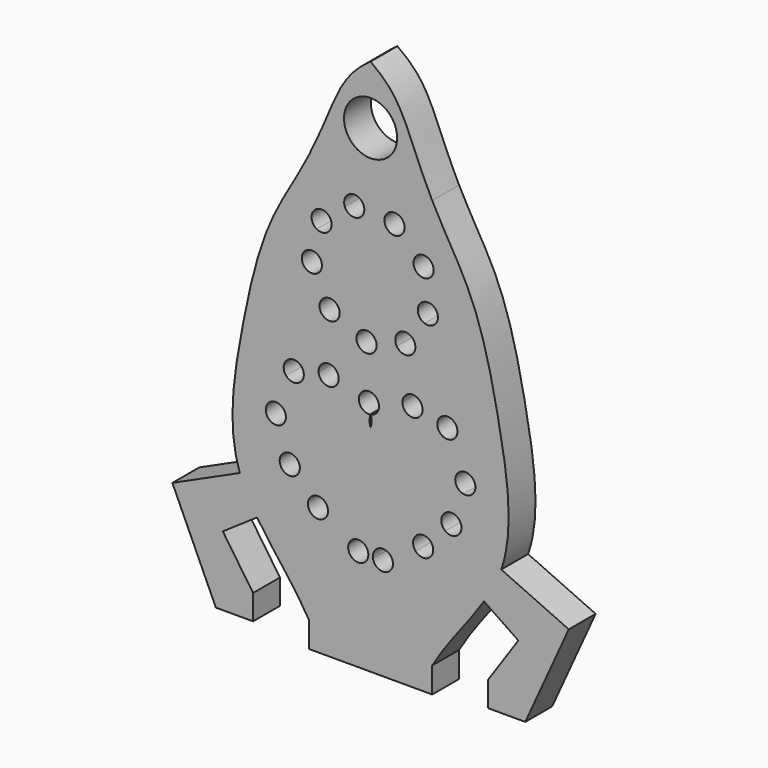
from build123d import *

# Parameters (mm, degrees)
F0_R     = 2.5128130048
F1_DEPTH = 3.175


with BuildPart() as f1:
    # F0 (on Front) → F1 (new body)
    with BuildSketch(Plane.XZ):
        with BuildLine():
            add(Edge.make_bspline(
                [(-5.8317569031, 20.1217572258), (-3.1463195149, 25.5072090049), (-3.2758958339, 27.4859398634), (0, 29.7985919136)],
                knots=[0, 0, 0, 0, 11.2982528805, 11.2982528805, 11.2982528805, 11.2982528805], degree=3))
            add(Edge.make_bspline(
                [(-5.8317569031, 20.1217572258), (-2.0176986776, 20.1219356534), (2.0176986776, 20.1219356534), (5.8317569031, 20.1217572258)],
                knots=[0, 0, 0, 0, 11.6635138063, 11.6635138063, 11.6635138063, 11.6635138063], degree=3))
            add(Edge.make_bspline(
                [(0, 29.7985919136), (3.2758958339, 27.4859398634), (3.1463195149, 25.5072090049), (5.8317569031, 20.1217572258)],
                knots=[0, 0, 0, 0, 11.2982528805, 11.2982528805, 11.2982528805, 11.2982528805], degree=3))
        make_face()
        with Locations((0, 24.2606662214)):
            Circle(F0_R, mode=Mode.SUBTRACT)
        with BuildLine():
            add(Edge.make_bspline(
                [(-5.8317569031, 20.1217572258), (-2.0176986776, 20.1219356534), (2.0176986776, 20.1219356534), (5.8317569031, 20.1217572258)],
                knots=[0, 0, 0, 0, 11.6635138063, 11.6635138063, 11.6635138063, 11.6635138063], degree=3))
            add(Edge.make_bspline(
                [(-5.8317569031, 20.1217572258), (-6.9799752135, 17.8190878844), (-10.0840864235, 13.388145858), (-12.3412969614, 3.2872432139), (-13.6052958241, -4.9103975297), (-12.3594653451, -8.4724418646)],
                knots=[0, 0, 0, 0, 0.2159416443, 0.4658263298, 0.7311582299, 0.7311582299, 0.7311582299, 0.7311582299], degree=3))
            add(Edge.make_bspline(
                [(-12.3594653451, -8.4724418646), (-11.9713697045, -9.5820742754), (-11.399206932, -10.6276913175), (-10.7330995772, -11.6474093268)],
                knots=[0.7311582299, 0.7311582299, 0.7311582299, 0.7311582299, 0.8138132584, 0.8138132584, 0.8138132584, 0.8138132584], degree=3))
            add(Edge.make_bspline(
                [(-10.7330995772, -11.6474093268), (-9.2326420702, -13.9444017426), (-7.255500444, -16.1099798995), (-5.8317569031, -18.579805676)],
                knots=[0.8138132584, 0.8138132584, 0.8138132584, 0.8138132584, 1, 1, 1, 1], degree=3))
            Line((-5.8317569031, -18.579805676), (5.8317569031, -18.579805676))
            add(Edge.make_bspline(
                [(10.7330995772, -11.6474093268), (9.2326420702, -13.9444017426), (7.255500444, -16.1099798995), (5.8317569031, -18.579805676)],
                knots=[0.8138132584, 0.8138132584, 0.8138132584, 0.8138132584, 1, 1, 1, 1], degree=3))
            add(Edge.make_bspline(
                [(12.3594653451, -8.4724418646), (11.9713697045, -9.5820742754), (11.399206932, -10.6276913175), (10.7330995772, -11.6474093268)],
                knots=[0.7311582299, 0.7311582299, 0.7311582299, 0.7311582299, 0.8138132584, 0.8138132584, 0.8138132584, 0.8138132584], degree=3))
            add(Edge.make_bspline(
                [(5.8317569031, 20.1217572258), (6.9799752135, 17.8190878844), (10.0840864235, 13.388145858), (12.3412969614, 3.2872432139), (13.6052958241, -4.9103975297), (12.3594653451, -8.4724418646)],
                knots=[0, 0, 0, 0, 0.2159416443, 0.4658263298, 0.7311582299, 0.7311582299, 0.7311582299, 0.7311582299], degree=3))
        make_face()
        with BuildLine():
            ThreePointArc((-0.8781678767, 1.9654666153), (-0.0827441635, 2.2950784695), (0.6534817118, 1.8486321472))
            add(Edge.make_bspline(
                [(0.6534817118, 1.8486321472), (1.2108226992, 2.1804375468), (2.1011812718, 2.3409908979), (3.0128705114, 2.393764413)],
                knots=[0.2022691027, 0.2022691027, 0.2022691027, 0.2022691027, 0.323027052, 0.323027052, 0.323027052, 0.323027052], degree=3))
            ThreePointArc((3.0128705114, 2.393764413), (3.9559326652, 3.3647343084), (4.9176905463, 2.4122793007))
            ThreePointArc((4.9176905463, 2.4122793007), (4.9173530603, 2.3869258608), (4.9163408415, 2.3615903871))
            add(Edge.make_bspline(
                [(4.9163408415, 2.3615903871), (5.4720704698, 2.3092266746), (5.963274391, 2.2162694028), (6.3996619764, 2.0707263193)],
                knots=[0.4106953232, 0.4106953232, 0.4106953232, 0.4106953232, 0.4952005479, 0.4952005479, 0.4952005479, 0.4952005479], degree=3))
            ThreePointArc((6.3996619764, 2.0707263193), (7.4690521422, 2.598516985), (8.2155919393, 1.6685510476))
            ThreePointArc((8.2155919393, 1.6685510476), (8.1582764211, 1.3431267192), (7.9932276485, 1.0568664097))
            add(Edge.make_bspline(
                [(7.9932276485, 1.0568664097), (8.5329932931, 0.4648310561), (8.9331451429, -0.3996702825), (9.0025356875, -1.3802166169), (9.0061049865, -1.4614594457)],
                knots=[0.6189562489, 0.6189562489, 0.6189562489, 0.6189562489, 0.7747442973, 0.7886862469, 0.7886862469, 0.7886862469, 0.7886862469], degree=3))
            ThreePointArc((9.0061049865, -1.4614594457), (9.6496973423, -1.7557928363), (9.9126071929, -2.4128481428))
            ThreePointArc((9.9126071929, -2.4128481428), (9.5650098389, -3.1486123977), (8.7759162977, -3.3473693914))
            add(Edge.make_bspline(
                [(8.7759162977, -3.3473693914), (8.6019934641, -4.0215117474), (8.3450950327, -4.7002065948), (8.0523242342, -5.3442846251)],
                knots=[0.8919422517, 0.8919422517, 0.8919422517, 0.8919422517, 1, 1, 1, 1], degree=3))
            add(Edge.make_bspline(
                [(8.0523242342, -5.3442846251), (8.0501349487, -5.3495623247), (8.0479508214, -5.354820538), (8.0457718075, -5.3600593727)],
                knots=[0, 0, 0, 0, 0.0011479548, 0.0011479548, 0.0011479548, 0.0011479548], degree=3))
            ThreePointArc((8.0457718075, -5.3600593727), (8.4458510465, -5.7115381409), (8.5947228165, -6.2228481428))
            ThreePointArc((8.5947228165, -6.2228481428), (8.0626551035, -7.0775369412), (7.0608793686, -6.9773652371))
            add(Edge.make_bspline(
                [(7.0608793686, -6.9773652371), (6.9702992422, -7.0642317871), (6.6185691008, -7.3820085557), (6.0965876317, -7.8929336686), (5.672408837, -8.2948391058)],
                knots=[0.2173712428, 0.2173712428, 0.2173712428, 0.2173712428, 0.2740667092, 0.419647138, 0.419647138, 0.419647138, 0.419647138], degree=3))
            ThreePointArc((5.672408837, -8.2948391058), (5.8608581136, -8.5947291889), (5.9267096578, -8.9427389099))
            ThreePointArc((5.9267096578, -8.9427389099), (5.3085151598, -9.8346447801), (4.2563766787, -9.5688156337))
            add(Edge.make_bspline(
                [(4.2563766787, -9.5688156337), (3.96431084, -9.8128772871), (3.2124037969, -10.4038434316), (2.4993332064, -10.8198078005), (2.0623204463, -11.0144282449)],
                knots=[0.5690227289, 0.5690227289, 0.5690227289, 0.5690227289, 0.6572492191, 0.7939555582, 0.7939555582, 0.7939555582, 0.7939555582], degree=3))
            ThreePointArc((2.0623204463, -11.0144282449), (2.1030138909, -11.1707435658), (2.1167096578, -11.3316872267))
            ThreePointArc((2.1167096578, -11.3316872267), (1.2489682982, -12.2804085888), (0.2267942292, -11.5005320199))
            add(Edge.make_bspline(
                [(0.2267942292, -11.5005320199), (0.1518997751, -11.5082095309), (0.0763245136, -11.5146809331), (0, -11.5199707958)],
                knots=[0.9786540367, 0.9786540367, 0.9786540367, 0.9786540367, 1, 1, 1, 1], degree=3))
            add(Edge.make_bspline(
                [(-0.2267942292, -11.5005320199), (-0.1518997751, -11.5082095309), (-0.0763245136, -11.5146809331), (0, -11.5199707958)],
                knots=[0.9786540367, 0.9786540367, 0.9786540367, 0.9786540367, 1, 1, 1, 1], degree=3))
            ThreePointArc((-0.2267942292, -11.5005320199), (-1.4080547597, -12.25244551), (-2.0623204463, -11.0144282449))
            add(Edge.make_bspline(
                [(-4.2563766787, -9.5688156337), (-3.96431084, -9.8128772871), (-3.2124037969, -10.4038434316), (-2.4993332064, -10.8198078005), (-2.0623204463, -11.0144282449)],
                knots=[0.5690227289, 0.5690227289, 0.5690227289, 0.5690227289, 0.6572492191, 0.7939555582, 0.7939555582, 0.7939555582, 0.7939555582], degree=3))
            ThreePointArc((-4.2563766787, -9.5688156337), (-5.6112735635, -9.6508390653), (-5.672408837, -8.2948391058))
            add(Edge.make_bspline(
                [(-7.0608793686, -6.9773652371), (-6.9702992422, -7.0642317871), (-6.6185691008, -7.3820085557), (-6.0965876317, -7.8929336686), (-5.672408837, -8.2948391058)],
                knots=[0.2173712428, 0.2173712428, 0.2173712428, 0.2173712428, 0.2740667092, 0.419647138, 0.419647138, 0.419647138, 0.419647138], degree=3))
            ThreePointArc((-7.0608793686, -6.9773652371), (-8.4557474209, -6.7182610696), (-8.0457718075, -5.3600593727))
            add(Edge.make_bspline(
                [(-8.0523242342, -5.3442846251), (-8.0501349487, -5.3495623247), (-8.0479508214, -5.354820538), (-8.0457718075, -5.3600593727)],
                knots=[0, 0, 0, 0, 0.0011479548, 0.0011479548, 0.0011479548, 0.0011479548], degree=3))
            add(Edge.make_bspline(
                [(-8.7759162977, -3.3473693914), (-8.6019934641, -4.0215117474), (-8.3450950327, -4.7002065948), (-8.0523242342, -5.3442846251)],
                knots=[0.8919422517, 0.8919422517, 0.8919422517, 0.8919422517, 1, 1, 1, 1], degree=3))
            ThreePointArc((-8.7759162977, -3.3473693914), (-9.9055903573, -2.5282510709), (-9.0061049865, -1.4614594457))
            add(Edge.make_bspline(
                [(-7.9932276485, 1.0568664097), (-8.5329932931, 0.4648310561), (-8.9331451429, -0.3996702825), (-9.0025356875, -1.3802166169), (-9.0061049865, -1.4614594457)],
                knots=[0.6189562489, 0.6189562489, 0.6189562489, 0.6189562489, 0.7747442973, 0.7886862469, 0.7886862469, 0.7886862469, 0.7886862469], degree=3))
            ThreePointArc((-7.9932276485, 1.0568664097), (-7.7743842418, 2.4721905385), (-6.3996619764, 2.0707263193))
            add(Edge.make_bspline(
                [(-4.9163408415, 2.3615903871), (-5.4720704698, 2.3092266746), (-5.963274391, 2.2162694028), (-6.3996619764, 2.0707263193)],
                knots=[0.4106953232, 0.4106953232, 0.4106953232, 0.4106953232, 0.4952005479, 0.4952005479, 0.4952005479, 0.4952005479], degree=3))
            ThreePointArc((-4.9163408415, 2.3615903871), (-3.9905439863, 3.3644418147), (-3.0126905463, 2.4122793007))
            ThreePointArc((-3.0126905463, 2.4122793007), (-3.0127355387, 2.4030214195), (-3.0128705114, 2.393764413))
            add(Edge.make_bspline(
                [(-0.8781678767, 1.9654666153), (-1.4343840848, 2.218996963), (-2.2154683225, 2.3476064519), (-3.0128705114, 2.393764413)],
                knots=[0.217407013, 0.217407013, 0.217407013, 0.217407013, 0.323027052, 0.323027052, 0.323027052, 0.323027052], degree=3))
        make_face(mode=Mode.SUBTRACT)
        with BuildLine():
            ThreePointArc((5.3590162899, 13.4767787316), (5.5266994385, 12.7020413363), (5.5829719467, 11.9113649962))
            ThreePointArc((5.5829719467, 11.9113649962), (5.5793244454, 11.7095866749), (5.5683867074, 11.5080720077))
            ThreePointArc((5.5683867074, 11.5080720077), (6.1432733571, 11.1857645563), (6.3712926501, 10.5673925363))
            ThreePointArc((6.3712926501, 10.5673925363), (5.9731095614, 9.7928029598), (5.1114732026, 9.6658322182))
            ThreePointArc((5.1114732026, 9.6658322182), (4.6323338135, 8.7951077542), (4.0063999583, 8.0231346619))
            ThreePointArc((4.0063999583, 8.0231346619), (4.1794320142, 7.7319822155), (4.239647153, 7.3986895866))
            ThreePointArc((4.239647153, 7.3986895866), (3.5431094262, 6.4812259281), (2.4722149961, 6.9055954479))
            ThreePointArc((2.4722149961, 6.9055954479), (1.5454820328, 6.5465666734), (0.5697741425, 6.3575435024))
            ThreePointArc((0.5697741425, 6.3575435024), (0.5698752629, 6.3495308417), (0.5699089705, 6.3415176139))
            ThreePointArc((0.5699089705, 6.3415176139), (-0.4558562222, 5.3918395308), (-1.3238200826, 6.4876138822))
            ThreePointArc((-1.3238200826, 6.4876138822), (-2.2645179672, 6.8082743509), (-3.1334553269, 7.2906471437))
            ThreePointArc((-3.1334553269, 7.2906471437), (-4.5341286186, 7.2045538425), (-4.5004250321, 8.607465741))
            ThreePointArc((-4.5004250321, 8.607465741), (-5.014924843, 9.4577748559), (-5.3705062244, 10.3858360217))
            ThreePointArc((-5.3705062244, 10.3858360217), (-6.4988239234, 11.2202201639), (-5.5712310924, 12.2732487801))
            ThreePointArc((-5.5712310924, 12.2732487801), (-5.4187926501, 13.2553374561), (-5.0946375729, 14.1948368612))
            ThreePointArc((-5.0946375729, 14.1948368612), (-5.422647288, 15.5592808335), (-4.0351962072, 15.7697023748))
            ThreePointArc((-4.0351962072, 15.7697023748), (-3.287147153, 16.4240404058), (-2.4349313805, 16.9353758372))
            ThreePointArc((-2.4349313805, 16.9353758372), (-1.8091537206, 18.1914411408), (-0.6110481705, 17.4607970294))
            ThreePointArc((-0.6110481705, 17.4607970294), (0.3825910295, 17.4812123785), (1.3641062661, 17.3251243049))
            ThreePointArc((1.3641062661, 17.3251243049), (2.4220205143, 17.9538433132), (3.2170179672, 17.0144556415))
            ThreePointArc((3.2170179672, 17.0144556415), (3.1870459391, 16.7773936432), (3.0990160963, 16.5552507606))
            ThreePointArc((3.0990160963, 16.5552507606), (3.8733106173, 15.9321908591), (4.5248634304, 15.1817146249))
            ThreePointArc((4.5248634304, 15.1817146249), (5.4842183304, 15.1938217559), (5.967424843, 14.3649551365))
            ThreePointArc((5.967424843, 14.3649551365), (5.8007375921, 13.8266665769), (5.3590162899, 13.4767787316))
        make_face(mode=Mode.SUBTRACT)
        with BuildLine():
            add(Edge.make_bspline(
                [(-12.3594653451, -8.4724418646), (-11.9713697045, -9.5820742754), (-11.399206932, -10.6276913175), (-10.7330995772, -11.6474093268)],
                knots=[0.7311582299, 0.7311582299, 0.7311582299, 0.7311582299, 0.8138132584, 0.8138132584, 0.8138132584, 0.8138132584], degree=3))
            Line((-12.3594653451, -8.4724418646), (-18.7440875661, -11.3745924868))
            Line((-18.7440875661, -11.3745924868), (-14.632413465, -20.4201208721))
            Line((-14.632413465, -20.4201208721), (-11.1096999329, -20.4201208721))
            Line((-11.1096999329, -20.4201208721), (-11.1096999329, -18.0552332997))
            Line((-11.1096999329, -18.0552332997), (-13.9725946684, -13.8559728443))
            Line((-13.9725946684, -13.8559728443), (-10.7330995772, -11.6474093268))
        make_face()
        with BuildLine():
            Line((18.7440875661, -11.3745924868), (12.3594653451, -8.4724418646))
            add(Edge.make_bspline(
                [(12.3594653451, -8.4724418646), (11.9713697045, -9.5820742754), (11.399206932, -10.6276913175), (10.7330995772, -11.6474093268)],
                knots=[0.7311582299, 0.7311582299, 0.7311582299, 0.7311582299, 0.8138132584, 0.8138132584, 0.8138132584, 0.8138132584], degree=3))
            Line((10.7330995772, -11.6474093268), (13.9725946684, -13.8559728443))
            Line((13.9725946684, -13.8559728443), (11.1096999329, -18.0552332997))
            Line((11.1096999329, -18.0552332997), (11.1096999329, -20.4201208721))
            Line((11.1096999329, -20.4201208721), (14.632413465, -20.4201208721))
            Line((14.632413465, -20.4201208721), (18.7440875661, -11.3745924868))
        make_face()
        with BuildLine():
            Line((5.8317569031, -18.579805676), (-5.8317569031, -18.579805676))
            add(Edge.make_bspline(
                [(-5.8317569031, -18.579805676), (-2.4496704333, -18.5805526404), (2.4496704333, -18.5805526404), (5.8317569031, -18.579805676)],
                knots=[0, 0, 0, 0, 11.6635138063, 11.6635138063, 11.6635138063, 11.6635138063], degree=3))
        make_face()
        with BuildLine():
            add(Edge.make_bspline(
                [(-5.8317569031, -18.579805676), (-2.4496704333, -18.5805526404), (2.4496704333, -18.5805526404), (5.8317569031, -18.579805676)],
                knots=[0, 0, 0, 0, 11.6635138063, 11.6635138063, 11.6635138063, 11.6635138063], degree=3))
            Line((-5.8317569031, -18.579805676), (-5.8317569031, -21.0014080864))
            Line((-5.8317569031, -21.0014080864), (5.8317569031, -21.0014080864))
            Line((5.8317569031, -21.0014080864), (5.8317569031, -18.579805676))
        make_face()
        with BuildLine():
            ThreePointArc((5.5683867074, 11.5080720077), (5.5793244454, 11.7095866749), (5.5829719467, 11.9113649962))
            ThreePointArc((5.5829719467, 11.9113649962), (5.5266994385, 12.7020413363), (5.3590162899, 13.4767787316))
            ThreePointArc((5.3590162899, 13.4767787316), (4.1593382561, 13.9463528883), (4.5248634304, 15.1817146249))
            ThreePointArc((4.5248634304, 15.1817146249), (3.8733106173, 15.9321908591), (3.0990160963, 16.5552507606))
            ThreePointArc((3.0990160963, 16.5552507606), (1.8781729552, 16.1438272583), (1.3641062661, 17.3251243049))
            ThreePointArc((1.3641062661, 17.3251243049), (0.3825910295, 17.4812123785), (-0.6110481705, 17.4607970294))
            ThreePointArc((-0.6110481705, 17.4607970294), (-0.5975093265, 17.3689210577), (-0.5929820328, 17.276163319))
            ThreePointArc((-0.5929820328, 17.276163319), (-1.3721965079, 16.3395586122), (-2.4349313805, 16.9353758372))
            ThreePointArc((-2.4349313805, 16.9353758372), (-3.287147153, 16.4240404058), (-4.0351962072, 15.7697023748))
            ThreePointArc((-4.0351962072, 15.7697023748), (-3.7732558718, 15.4390117616), (-3.6798338135, 15.0276222382))
            ThreePointArc((-3.6798338135, 15.0276222382), (-4.1491610084, 14.2067688466), (-5.0946375729, 14.1948368612))
            ThreePointArc((-5.0946375729, 14.1948368612), (-5.4187926501, 13.2553374561), (-5.5712310924, 12.2732487801))
            ThreePointArc((-5.5712310924, 12.2732487801), (-4.8850994215, 12.0013514207), (-4.5991651203, 11.3209497605))
            ThreePointArc((-4.5991651203, 11.3209497605), (-4.8168828061, 10.7148547177), (-5.3705062244, 10.3858360217))
            ThreePointArc((-5.3705062244, 10.3858360217), (-5.014924843, 9.4577748559), (-4.5004250321, 8.607465741))
            ThreePointArc((-4.5004250321, 8.607465741), (-3.4796548223, 8.7578864484), (-2.9208106173, 7.8905391333))
            ThreePointArc((-2.9208106173, 7.8905391333), (-2.9755443855, 7.5723064465), (-3.1334553269, 7.2906471437))
            ThreePointArc((-3.1334553269, 7.2906471437), (-2.2645179672, 6.8082743509), (-1.3238200826, 6.4876138822))
            ThreePointArc((-1.3238200826, 6.4876138822), (-0.3173179171, 7.2917784574), (0.5697741425, 6.3575435024))
            ThreePointArc((0.5697741425, 6.3575435024), (1.5454820328, 6.5465666734), (2.4722149961, 6.9055954479))
            ThreePointArc((2.4722149961, 6.9055954479), (2.7263333619, 8.1685883732), (4.0063999583, 8.0231346619))
            ThreePointArc((4.0063999583, 8.0231346619), (4.6323338135, 8.7951077542), (5.1114732026, 9.6658322182))
            ThreePointArc((5.1114732026, 9.6658322182), (4.494302961, 10.7966850672), (5.5683867074, 11.5080720077))
        make_face()
        with BuildLine():
            add(Edge.make_bspline(
                [(0, -0.6480246276), (0.1374471774, -0.3803615299), (0.0815790552, 0.0138131128), (0.0531288168, 0.4158972608)],
                knots=[0, 0, 0, 0, 0.0841991302, 0.0841991302, 0.0841991302, 0.0841991302], degree=3))
            add(Edge.make_bspline(
                [(0, -0.6480246276), (-0.1354283518, -0.3842929683), (-0.083178533, 0.0022611235), (-0.0543994947, 0.398185307)],
                knots=[0, 0, 0, 0, 0.0829624125, 0.0829624125, 0.0829624125, 0.0829624125], degree=3))
            ThreePointArc((-0.0543994947, 0.398185307), (-0.9983225741, 0.9021845133), (-0.8781678767, 1.9654666153))
            add(Edge.make_bspline(
                [(-0.8781678767, 1.9654666153), (-1.4343840848, 2.218996963), (-2.2154683225, 2.3476064519), (-3.0128705114, 2.393764413)],
                knots=[0.217407013, 0.217407013, 0.217407013, 0.217407013, 0.323027052, 0.323027052, 0.323027052, 0.323027052], degree=3))
            ThreePointArc((-3.0128705114, 2.393764413), (-3.9490929049, 1.4599153388), (-4.9163408415, 2.3615903871))
            add(Edge.make_bspline(
                [(-4.9163408415, 2.3615903871), (-5.4720704698, 2.3092266746), (-5.963274391, 2.2162694028), (-6.3996619764, 2.0707263193)],
                knots=[0.4106953232, 0.4106953232, 0.4106953232, 0.4106953232, 0.4952005479, 0.4952005479, 0.4952005479, 0.4952005479], degree=3))
            ThreePointArc((-6.3996619764, 2.0707263193), (-6.3331260019, 1.8745112505), (-6.3105919393, 1.6685510476))
            ThreePointArc((-6.3105919393, 1.6685510476), (-6.9376676109, 0.7733665658), (-7.9932276485, 1.0568664097))
            add(Edge.make_bspline(
                [(-7.9932276485, 1.0568664097), (-8.5329932931, 0.4648310561), (-8.9331451429, -0.3996702825), (-9.0025356875, -1.3802166169), (-9.0061049865, -1.4614594457)],
                knots=[0.6189562489, 0.6189562489, 0.6189562489, 0.6189562489, 0.7747442973, 0.7886862469, 0.7886862469, 0.7886862469, 0.7886862469], degree=3))
            ThreePointArc((-9.0061049865, -1.4614594457), (-8.3030518864, -1.7232579934), (-8.0076071929, -2.4128481428))
            ThreePointArc((-8.0076071929, -2.4128481428), (-8.224342938, -3.0177507889), (-8.7759162977, -3.3473693914))
            add(Edge.make_bspline(
                [(-8.7759162977, -3.3473693914), (-8.6019934641, -4.0215117474), (-8.3450950327, -4.7002065948), (-8.0523242342, -5.3442846251)],
                knots=[0.8919422517, 0.8919422517, 0.8919422517, 0.8919422517, 1, 1, 1, 1], degree=3))
            add(Edge.make_bspline(
                [(-8.0523242342, -5.3442846251), (-8.0501349487, -5.3495623247), (-8.0479508214, -5.354820538), (-8.0457718075, -5.3600593727)],
                knots=[0, 0, 0, 0, 0.0011479548, 0.0011479548, 0.0011479548, 0.0011479548], degree=3))
            ThreePointArc((-8.0457718075, -5.3600593727), (-7.1309128147, -5.4192199129), (-6.6897228165, -6.2228481428))
            ThreePointArc((-6.6897228165, -6.2228481428), (-6.7875340182, -6.6432804298), (-7.0608793686, -6.9773652371))
            add(Edge.make_bspline(
                [(-7.0608793686, -6.9773652371), (-6.9702992422, -7.0642317871), (-6.6185691008, -7.3820085557), (-6.0965876317, -7.8929336686), (-5.672408837, -8.2948391058)],
                knots=[0.2173712428, 0.2173712428, 0.2173712428, 0.2173712428, 0.2740667092, 0.419647138, 0.419647138, 0.419647138, 0.419647138], degree=3))
            ThreePointArc((-5.672408837, -8.2948391058), (-4.6261999368, -8.0560904541), (-4.0217096578, -8.9427389099))
            ThreePointArc((-4.0217096578, -8.9427389099), (-4.0823037876, -9.2770444119), (-4.2563766787, -9.5688156337))
            add(Edge.make_bspline(
                [(-4.2563766787, -9.5688156337), (-3.96431084, -9.8128772871), (-3.2124037969, -10.4038434316), (-2.4993332064, -10.8198078005), (-2.0623204463, -11.0144282449)],
                knots=[0.5690227289, 0.5690227289, 0.5690227289, 0.5690227289, 0.6572492191, 0.7939555582, 0.7939555582, 0.7939555582, 0.7939555582], degree=3))
            ThreePointArc((-2.0623204463, -11.0144282449), (-1.0032659969, -10.3928829936), (-0.2117096578, -11.3316872267))
            ThreePointArc((-0.2117096578, -11.3316872267), (-0.2154882957, -11.4164458671), (-0.2267942292, -11.5005320199))
            add(Edge.make_bspline(
                [(-0.2267942292, -11.5005320199), (-0.1518997751, -11.5082095309), (-0.0763245136, -11.5146809331), (0, -11.5199707958)],
                knots=[0.9786540367, 0.9786540367, 0.9786540367, 0.9786540367, 1, 1, 1, 1], degree=3))
            add(Edge.make_bspline(
                [(0.2267942292, -11.5005320199), (0.1518997751, -11.5082095309), (0.0763245136, -11.5146809331), (0, -11.5199707958)],
                knots=[0.9786540367, 0.9786540367, 0.9786540367, 0.9786540367, 1, 1, 1, 1], degree=3))
            ThreePointArc((0.2267942292, -11.5005320199), (0.9203645559, -10.4109289434), (2.0623204463, -11.0144282449))
            add(Edge.make_bspline(
                [(4.2563766787, -9.5688156337), (3.96431084, -9.8128772871), (3.2124037969, -10.4038434316), (2.4993332064, -10.8198078005), (2.0623204463, -11.0144282449)],
                knots=[0.5690227289, 0.5690227289, 0.5690227289, 0.5690227289, 0.6572492191, 0.7939555582, 0.7939555582, 0.7939555582, 0.7939555582], degree=3))
            ThreePointArc((4.2563766787, -9.5688156337), (4.3371457522, -8.2346387545), (5.672408837, -8.2948391058))
            add(Edge.make_bspline(
                [(7.0608793686, -6.9773652371), (6.9702992422, -7.0642317871), (6.6185691008, -7.3820085557), (6.0965876317, -7.8929336686), (5.672408837, -8.2948391058)],
                knots=[0.2173712428, 0.2173712428, 0.2173712428, 0.2173712428, 0.2740667092, 0.419647138, 0.419647138, 0.419647138, 0.419647138], degree=3))
            ThreePointArc((7.0608793686, -6.9773652371), (6.8286982121, -5.727435216), (8.0457718075, -5.3600593727))
            add(Edge.make_bspline(
                [(8.0523242342, -5.3442846251), (8.0501349487, -5.3495623247), (8.0479508214, -5.354820538), (8.0457718075, -5.3600593727)],
                knots=[0, 0, 0, 0, 0.0011479548, 0.0011479548, 0.0011479548, 0.0011479548], degree=3))
            add(Edge.make_bspline(
                [(8.7759162977, -3.3473693914), (8.6019934641, -4.0215117474), (8.3450950327, -4.7002065948), (8.0523242342, -5.3442846251)],
                knots=[0.8919422517, 0.8919422517, 0.8919422517, 0.8919422517, 1, 1, 1, 1], degree=3))
            ThreePointArc((8.7759162977, -3.3473693914), (8.0146240285, -2.2974452147), (9.0061049865, -1.4614594457))
            add(Edge.make_bspline(
                [(7.9932276485, 1.0568664097), (8.5329932931, 0.4648310561), (8.9331451429, -0.3996702825), (9.0025356875, -1.3802166169), (9.0061049865, -1.4614594457)],
                knots=[0.6189562489, 0.6189562489, 0.6189562489, 0.6189562489, 0.7747442973, 0.7886862469, 0.7886862469, 0.7886862469, 0.7886862469], degree=3))
            ThreePointArc((7.9932276485, 1.0568664097), (6.7517996368, 0.8649115566), (6.3996619764, 2.0707263193))
            add(Edge.make_bspline(
                [(4.9163408415, 2.3615903871), (5.4720704698, 2.3092266746), (5.963274391, 2.2162694028), (6.3996619764, 2.0707263193)],
                knots=[0.4106953232, 0.4106953232, 0.4106953232, 0.4106953232, 0.4952005479, 0.4952005479, 0.4952005479, 0.4952005479], degree=3))
            ThreePointArc((4.9163408415, 2.3615903871), (3.9490929049, 1.4599153388), (3.0128705114, 2.393764413))
            add(Edge.make_bspline(
                [(0.6534817118, 1.8486321472), (1.2108226992, 2.1804375468), (2.1011812718, 2.3409908979), (3.0128705114, 2.393764413)],
                knots=[0.2022691027, 0.2022691027, 0.2022691027, 0.2022691027, 0.323027052, 0.323027052, 0.323027052, 0.323027052], degree=3))
            ThreePointArc((0.6534817118, 1.8486321472), (0.7606469327, 1.6070587258), (0.7973094537, 1.3453375725))
            ThreePointArc((0.7973094537, 1.3453375725), (0.5883417137, 0.7500090679), (0.0531288168, 0.4158972608))
        make_face()
    extrude(amount=F1_DEPTH)


solid = f1.part
